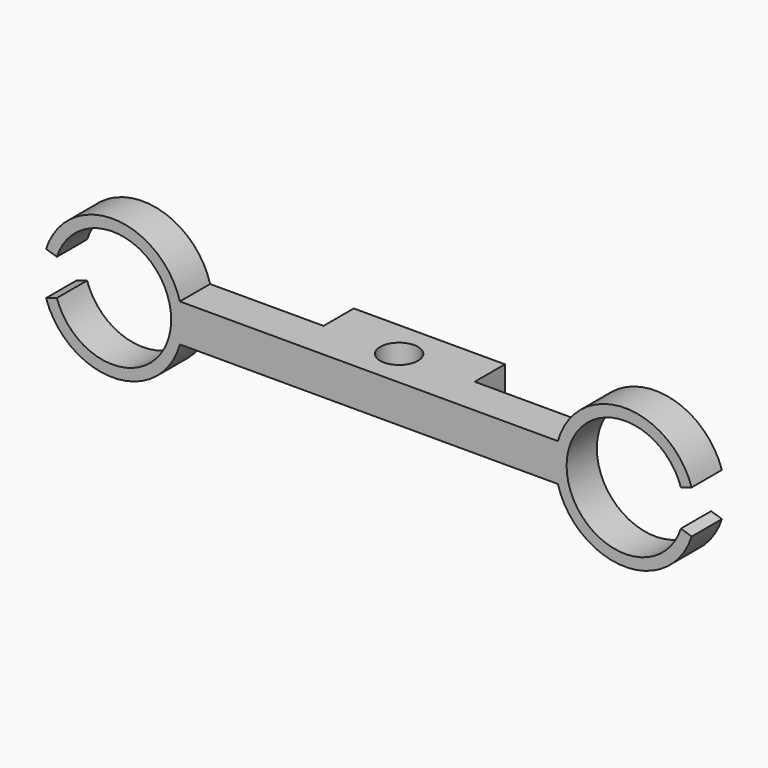
from build123d import *

# Parameters (mm, degrees)
PAD_DEPTH         = 10
SKETCH001_W       = 20
SKETCH001_H       = 10
PAD001_DEPTH      = 10
SKETCH002_R       = 5
POCKET_DEPTH      = 18.501
POCKET_DEPTH_BACK = -18.501


with BuildPart() as part:
    # Sketch → Pad (new body)
    with BuildSketch(Plane.XZ):
        with BuildLine():
            Line((0, 5), (50, 5))
            ThreePointArc((85.406059, 5.716814), (67.437048, 18.49621), (50, 5))
            Line((85.406059, 5.716814), (82.552889, 4.789763))
            ThreePointArc((82.552889, 4.789763), (52.311513, 0), (82.552889, -4.789763))
            Line((85.406059, -5.716814), (82.552889, -4.789763))
            ThreePointArc((50, -5), (67.437048, -18.49621), (85.406059, -5.716814))
            Line((0, -5), (50, -5))
            Line((0, 5), (0, -5))
        make_face()
    pad = extrude(amount=PAD_DEPTH)

    # Sketch001 → Pad001 (join)
    with BuildSketch(Plane.XZ):
        with Locations((10, 0)):
            Rectangle(SKETCH001_W, SKETCH001_H)
    pad001 = extrude(amount=-PAD001_DEPTH)

    # Mirrored: Pad, Pad001 across Sketch V_Axis
    add(pad.mirror(Plane(origin=(0, 0, 0), x_dir=(0, -1, 0), z_dir=(1, 0, 0))))
    add(pad001.mirror(Plane(origin=(0, 0, 0), x_dir=(0, -1, 0), z_dir=(1, 0, 0))))

    # Sketch002 → Pocket (cut, two sides)
    with BuildSketch(Plane.XY) as pocket_sk:
        Circle(SKETCH002_R)
    extrude(amount=-POCKET_DEPTH, mode=Mode.SUBTRACT)
    extrude(pocket_sk.sketch, amount=-POCKET_DEPTH_BACK, mode=Mode.SUBTRACT)


solid = part.part
